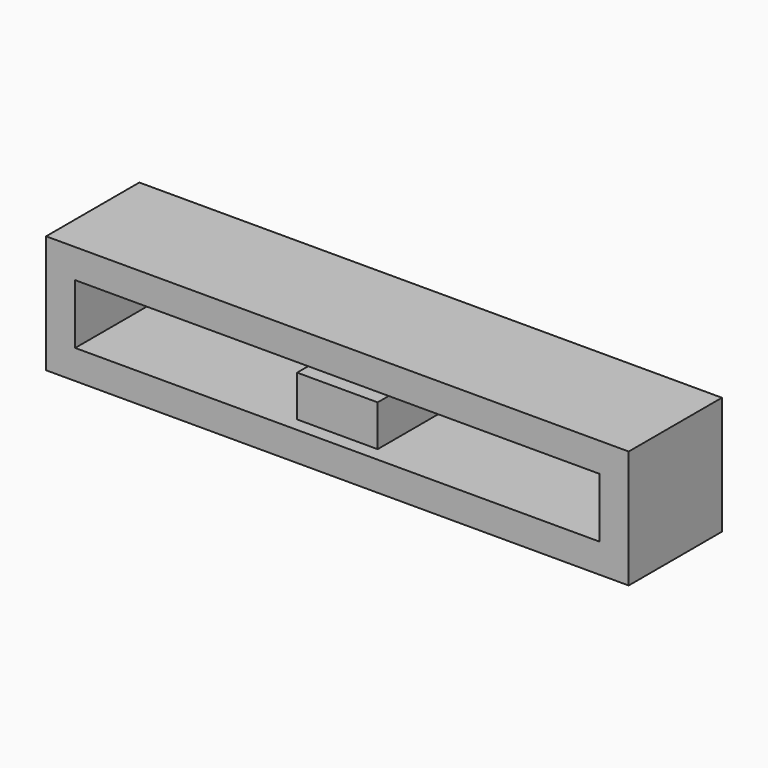
from build123d import *

# Parameters (mm, degrees)
F0_W     = 127
F0_H     = 25.712098
F0_W_2   = 114.3
F0_H_2   = 13.007298
F1_DEPTH = 25.4
F2_W     = 17.547922
F2_H     = 8.987962
F3_DEPTH = 25.4


with BuildPart() as f1:
    # F0 (on Front) → F1 (new body)
    with BuildSketch(Plane.XZ):
        Rectangle(F0_W, F0_H)
        Rectangle(F0_W_2, F0_H_2, mode=Mode.SUBTRACT)
    extrude(amount=F1_DEPTH)


with BuildPart() as f3:
    # F2 (on Front) → F3 (new body)
    with BuildSketch(Plane.XZ):
        Rectangle(F2_W, F2_H)
    extrude(amount=F3_DEPTH)


solid = Compound([f1.part, f3.part])
